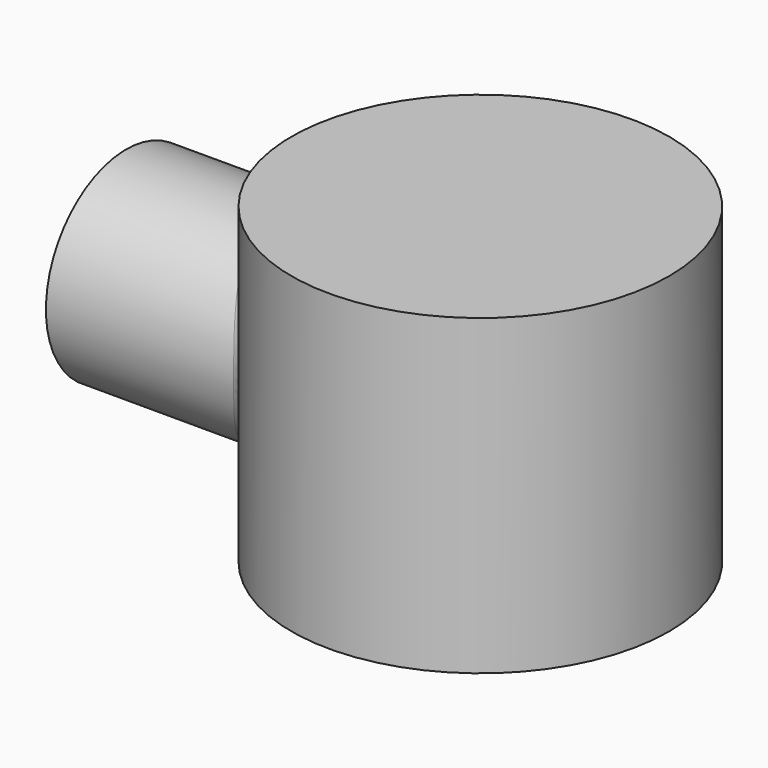
from build123d import *

# Parameters (mm, degrees)
F0_R     = 40.64
F0_R_2   = 38.1
F1_DEPTH = 63.5
F2_R     = 19.05
F3_DEPTH = 62.992
F4_R     = 21.59
F4_R_2   = 19.05
F5_DEPTH = 76.2
F6_R     = 38.1
F7_DEPTH = 108.458
F8_R     = 40.64
F9_DEPTH = 3.81
F10_R    = 2.54


with BuildPart() as f1:
    # F0 (on Top) → F1 (new body)
    with BuildSketch(Plane.XY):
        Circle(F0_R)
        Circle(F0_R_2, mode=Mode.SUBTRACT)
    extrude(amount=F1_DEPTH)

    # F2 (on Right) → F3 (cut)
    with BuildSketch(Plane.YZ):
        with Locations((0, 31.75)):
            Circle(F2_R)
    extrude(amount=-F3_DEPTH, mode=Mode.SUBTRACT)

    # F4 (on Right) → F5 (join)
    with BuildSketch(Plane.YZ):
        with Locations((0, 31.75)):
            Circle(F4_R)
        with Locations((0, 31.75)):
            Circle(F4_R_2, mode=Mode.SUBTRACT)
    extrude(amount=-F5_DEPTH)

    # F6 (on Top) → F7 (cut)
    with BuildSketch(Plane.XY):
        Circle(F6_R)
    extrude(amount=F7_DEPTH, mode=Mode.SUBTRACT)

    # F8 (on face) → F9 (join)
    with BuildSketch(Plane.XY.offset(63.5)):
        Circle(F8_R)
    extrude(amount=F9_DEPTH)

    # F10
    f10_edges = [f1.edges().sort_by_distance(p)[0] for p in [
        (-34.430822, -21.59, 31.75),
    ]]
    fillet(f10_edges, radius=F10_R)


solid = f1.part
